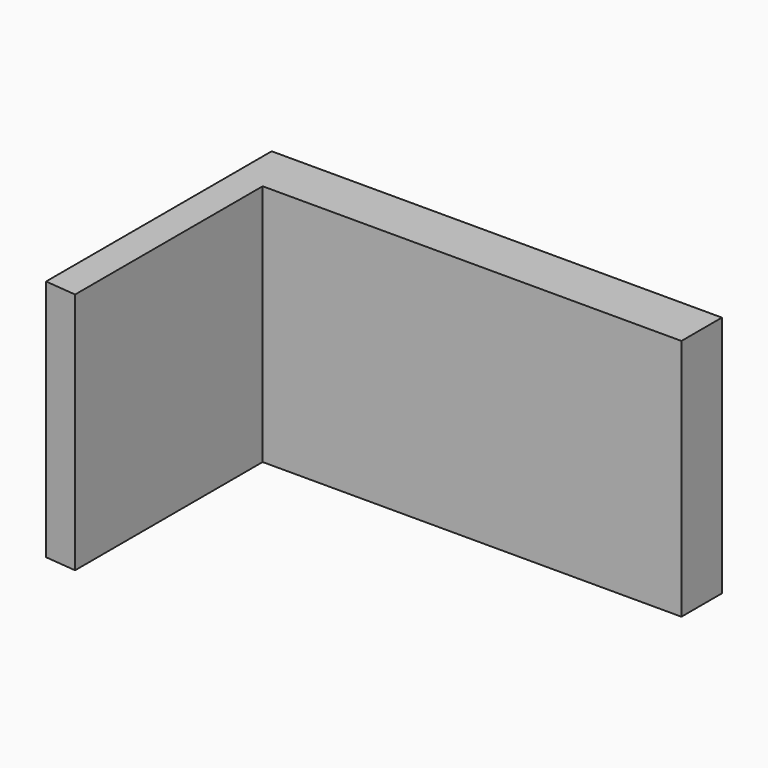
from build123d import *

# Parameters (mm, degrees)
F1_DEPTH = 50.5
F2_W     = 39.986705
F2_H     = 40.191241
F3_DEPTH = 21


with BuildPart() as f1:
    # F0 (on Top) → F1 (new body)
    with BuildSketch(Plane.XY):
        Polygon((-55.271044, 41.926168), (-55.271044, -16.724715), (-48.72587, -17.367102), (-48.72587, 31.398933), (38.3831, 31.398933), (38.3831, 41.926168), align=None)
    extrude(amount=F1_DEPTH)

    # F2 (on face) → F3 (join)
    with BuildSketch(Plane.XZ.offset(-31.398933)):
        with Locations((-9.001658, 20.09562)):
            Rectangle(F2_W, F2_H)
    extrude(amount=-F3_DEPTH)


solid = f1.part
